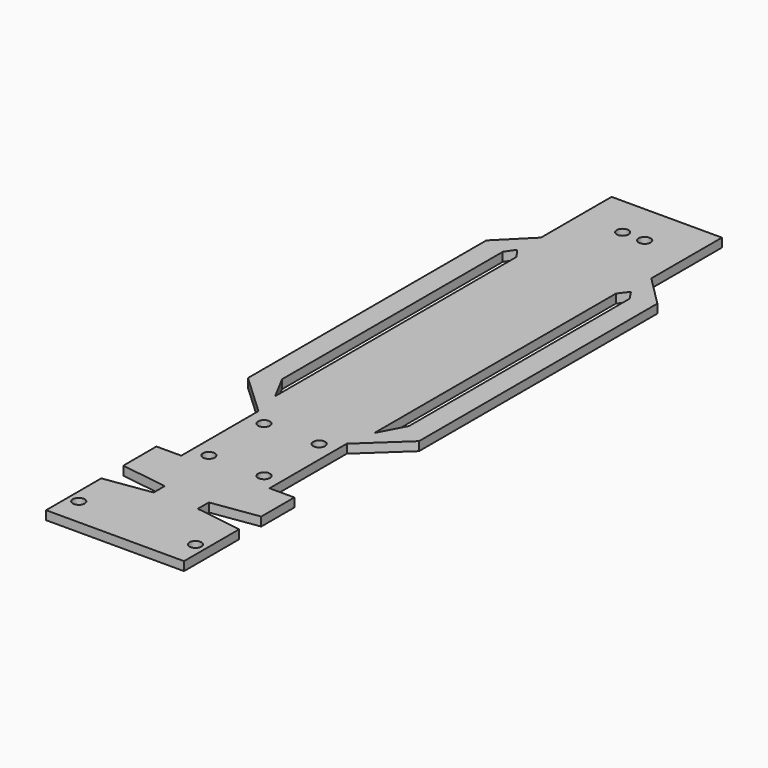
from build123d import *

# Parameters (mm, degrees)
F0_R     = 2.15
F1_DEPTH = 3.2
F3_DEPTH = 74
F4_DEPTH = 32.4


with BuildPart() as f1:
    # F0 (on Top) → F1 (new body)
    with BuildSketch(Plane.XY):
        Polygon((-25, -25), (-25, -50), (25, -50), (25, -25), (8, -22.5), (8, -17.5), (25, -15), (25, 0), (-25, 0), (-25, -15), (-8, -17.5), (-8, -22.5), align=None)
        with Locations((-21.15, -40)):
            Circle(F0_R, mode=Mode.SUBTRACT)
        with Locations((21.15, -40)):
            Circle(F0_R, mode=Mode.SUBTRACT)
        Polygon((-35, 0), (-25, 0), (25, 0), (35, 0), (35, 225), (-35, 225), align=None)
        with Locations((-10, 5)):
            Circle(F0_R, mode=Mode.SUBTRACT)
        with Locations((-10, 30)):
            Circle(F0_R, mode=Mode.SUBTRACT)
        with Locations((10, 5)):
            Circle(F0_R, mode=Mode.SUBTRACT)
        with Locations((10, 30)):
            Circle(F0_R, mode=Mode.SUBTRACT)
        with Locations((-4, 185)):
            Circle(F0_R, mode=Mode.SUBTRACT)
        with Locations((4, 185)):
            Circle(F0_R, mode=Mode.SUBTRACT)
    extrude(amount=F1_DEPTH)

    # F2 (on Top) → F3 (cut)
    with BuildSketch(Plane.XY):
        Polygon((-20, 168), (-20, 200), (20, 200), (20, 168), (31, 157), (31, 225), (-31, 225), (-31, 157), align=None)
        Polygon((-31, 49), (-31, 157), (-31, 225), (-35, 225), (-35, 0), (-31, 0), align=None)
        Polygon((31, 225), (31, 157), (31, 49), (31, 0), (35, 0), (35, 225), align=None)
        Polygon((-16, 35), (-31, 49), (-31, 0), (-16, 0), align=None)
        Polygon((31, 0), (31, 49), (16, 35), (16, 0), align=None)
        Polygon((23, 154.432595), (20.625565, 158), (18, 154.432595), (18, 45), (23, 54.432595), align=None)
        Polygon((-18, 154.432595), (-20.625565, 158), (-23, 154.432595), (-23, 54.432595), (-18, 45), align=None)
    extrude(amount=F3_DEPTH, mode=Mode.SUBTRACT)

    # F2 (on Top) → F4 (cut)
    with BuildSketch(Plane.XY):
        Polygon((-20, 168), (-20, 200), (20, 200), (20, 168), (31, 157), (31, 225), (-31, 225), (-31, 157), align=None)
        Polygon((-31, 49), (-31, 157), (-31, 225), (-35, 225), (-35, 0), (-31, 0), align=None)
        Polygon((31, 225), (31, 157), (31, 49), (31, 0), (35, 0), (35, 225), align=None)
        Polygon((-16, 35), (-31, 49), (-31, 0), (-16, 0), align=None)
        Polygon((31, 0), (31, 49), (16, 35), (16, 0), align=None)
        Polygon((23, 154.432595), (20.625565, 158), (18, 154.432595), (18, 45), (23, 54.432595), align=None)
        Polygon((-18, 154.432595), (-20.625565, 158), (-23, 154.432595), (-23, 54.432595), (-18, 45), align=None)
    extrude(amount=-F4_DEPTH, mode=Mode.SUBTRACT)


solid = f1.part
